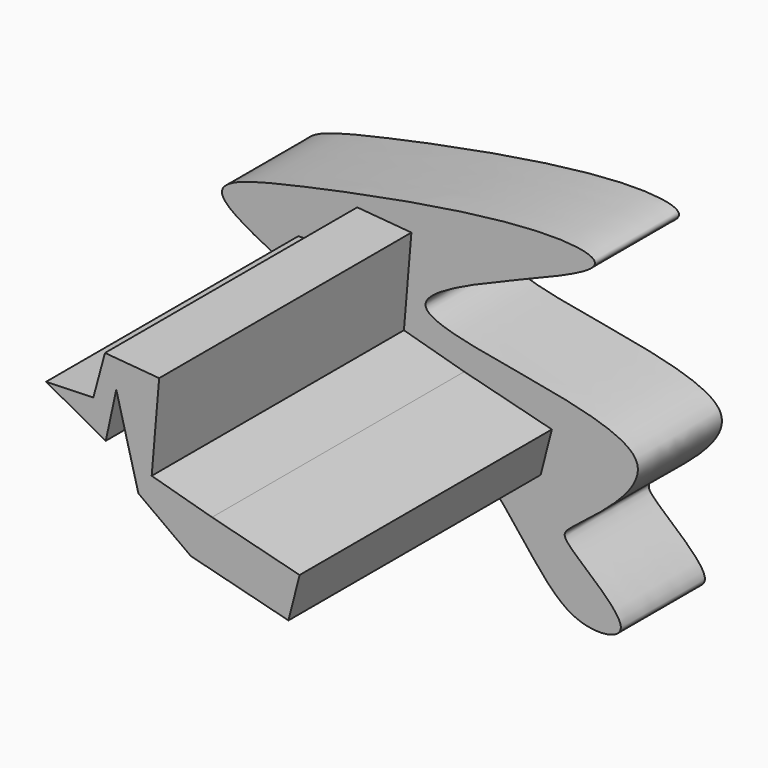
from build123d import *

# Parameters (mm, degrees)
F1_DEPTH = 25.4
F3_DEPTH = 76.2


with BuildPart() as f1:
    # F0 (on Front) → F1 (new body)
    with BuildSketch(Plane.XZ):
        with BuildLine():
            add(Edge.make_bspline(
                [(0, 0), (-18.8746298502, 14.7787753159), (-71.5623803112, 31.6655060524), (-35.903128647, 41.1646987631), (20.9266307508, 52.0656321274), (44.0275590881, 45.614460323), (-47.3609917491, 19.1704939117), (68.4874183168, 16.9353061673), (27.3732091132, -10.8208319436), (25.2276488703, -14.5074154141), (47.8398081602, -30.0827144468), (22.8074982336, -33.5071173951), (15.2525084796, -11.9426657694), (0, 0)],
                knots=[0, 0, 0, 0, 0.1378657045, 0.2104046268, 0.350505796, 0.3986854545, 0.514603237, 0.6395986949, 0.7253203875, 0.7580135781, 0.832789388, 0.8885913078, 1, 1, 1, 1], degree=3))
        make_face()
    extrude(amount=F1_DEPTH)

    # F2 (on face) → F3 (join)
    with BuildSketch(Plane.XZ.offset(25.4)):
        Polygon((-26.4148730785, 29.8517309129), (-37.8346852958, 29.4975396246), (-23.4065875411, 21.6211620718), (-20.8696629852, 33.338803798), (-15.5264595523, 13.0012445152), (-2.8598352801, 3.7893156987), (20.7406599075, -2.236522967), (23.4326790062, 8.3069029875), (2.2699554419, 13.7103132512), (-12.3140197247, 17.7819970995), (-10.507080704, 39.1541309655), (-23.5997294439, 40.2610685339), align=None)
    extrude(amount=F3_DEPTH)


solid = f1.part
